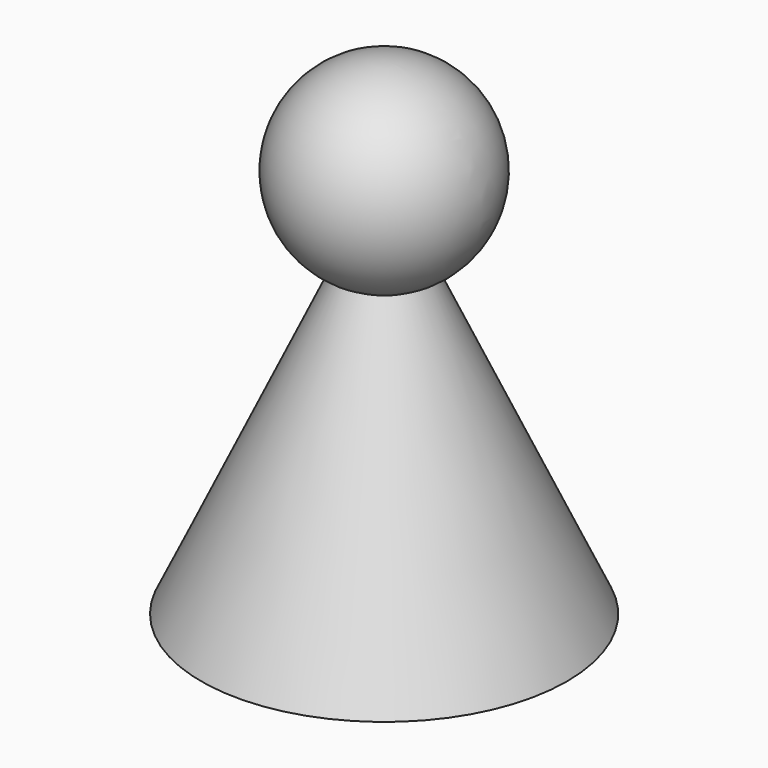
from build123d import *


with BuildPart() as part:
    # Sketch → Revolution (revolve)
    with BuildSketch(Plane.XZ):
        with BuildLine():
            ThreePointArc((3.44501, 24.779757), (7.802626, 33.766077), (0, 40))
            Line((0, 0), (0, 40))
            Line((15, 0), (0, 0))
            Line((3.44501, 24.779757), (15, 0))
        make_face()
    revolve(axis=Axis((0, 0, 0), (0, 0, 1)))


solid = part.part
